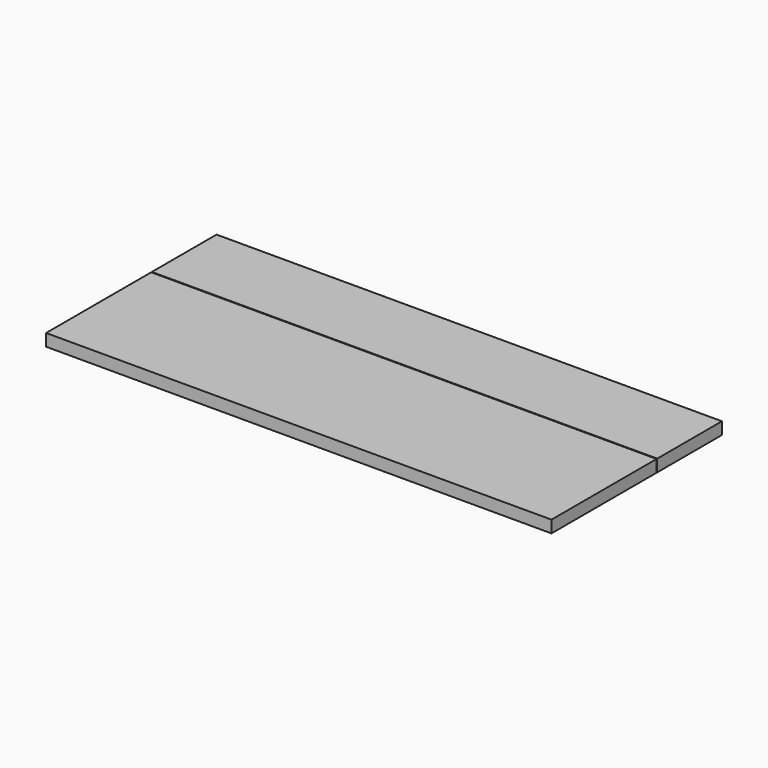
from build123d import *

# Parameters (mm, degrees)
F0_W     = 500
F0_H     = 130
F1_DEPTH = 12
F2_W     = 500
F2_H     = 80
F4_DEPTH = 12


with BuildPart() as f1:
    # F0 (on Top) → F1 (new body)
    with BuildSketch(Plane.XY):
        with Locations((250, -65)):
            Rectangle(F0_W, F0_H)
    extrude(amount=-F1_DEPTH)


with BuildPart() as f1_1:
    # F3: moved
    add(f1.part.moved(Location((54, -89, 0))))


with BuildPart() as f4:
    # F2 (on Top) → F4 (new body)
    with BuildSketch(Plane.XY):
        with Locations((250, 40)):
            Rectangle(F2_W, F2_H)
    extrude(amount=-F4_DEPTH)


with BuildPart() as f1_2:
    # F5: moved
    add(f1_1.part.moved(Location((-54, 88.2, 0))))


solid = Compound([f4.part, f1_2.part])
